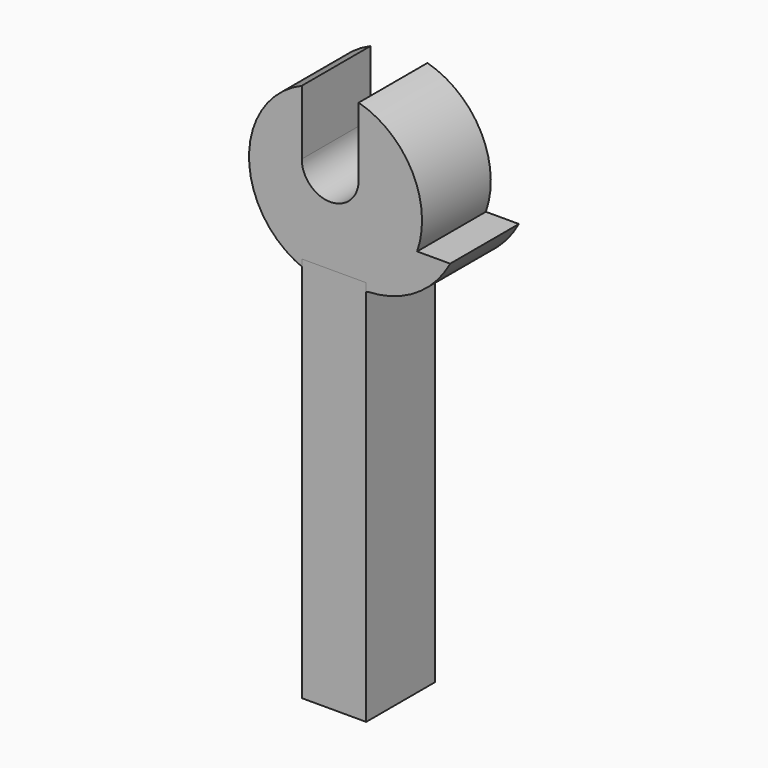
from build123d import *

# Parameters (mm, degrees)
F1_R     = 5.114750284
F2_DEPTH = 5.08
F0_W     = 3.81
F0_H     = 22.86
F4_DEPTH = 5.081
F6_DEPTH = 5.08


with BuildPart() as f2:
    # F1 (on Front) → F2 (new body)
    with BuildSketch(Plane.XZ):
        with Locations((1.9960911013, 27.1652003531)):
            Circle(F1_R)
    extrude(amount=F2_DEPTH)

    # F3 (on face) → F4 (cut, through all)
    with BuildSketch(Plane.XZ.offset(5.08)):
        with BuildLine():
            Line((3.3687153245, 28.0579085851), (3.3687153245, 32.0923266159))
            ThreePointArc((3.3687153245, 32.0923266159), (1.6658580479, 32.269278781), (0, 31.8743712762))
            Line((0, 31.8743712762), (0, 28.0579085851))
            ThreePointArc((0, 28.0579085851), (1.6843576623, 26.3735509229), (3.3687153245, 28.0579085851))
        make_face()
    extrude(amount=-F4_DEPTH, mode=Mode.SUBTRACT)

    # F5 (on face) → F6 (join)
    with BuildSketch(Plane.XZ.offset(5.08)):
        with BuildLine():
            Line((8.7744330163, 25.4684417613), (6.8212005041, 25.4684417613))
            ThreePointArc((6.8212005041, 25.4684417613), (5.6923928708, 23.6299459498), (3.9059721433, 22.4204111193))
            ThreePointArc((3.9059721433, 22.4204111193), (6.7479771265, 23.2931093577), (8.7744330163, 25.4684417613))
        make_face()
    extrude(amount=-F6_DEPTH)


with BuildPart() as f2b:
    # F0 (on Front) → F2, piece 2 (new body)
    with BuildSketch(Plane.XZ):
        with Locations((1.905, 11.43)):
            Rectangle(F0_W, F0_H)
    extrude(amount=F2_DEPTH)


solid = Compound([f2.part, f2b.part])
